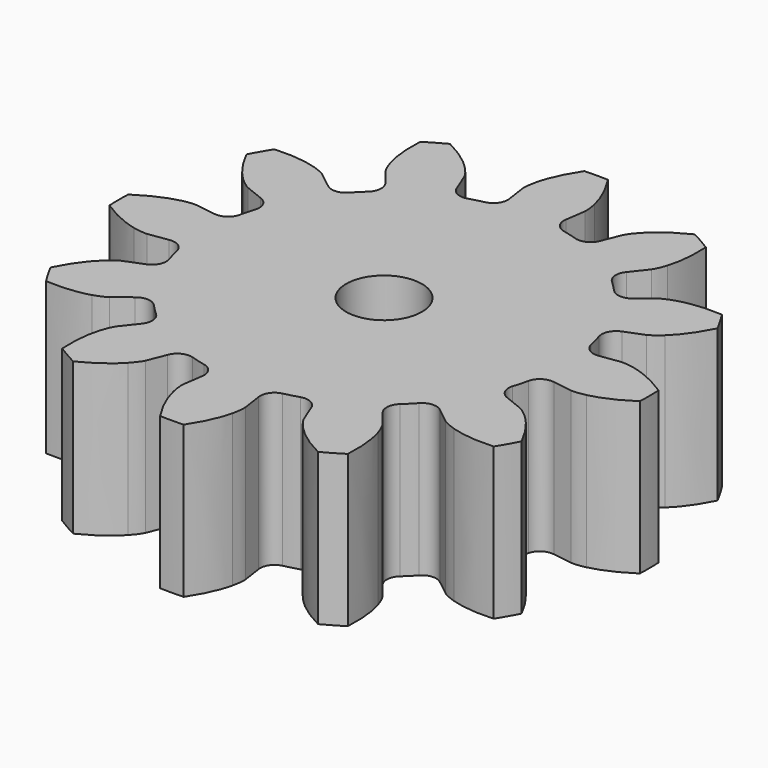
from build123d import *

# Parameters (mm, degrees)
PAD_DEPTH    = 10
SKETCH_R     = 2.5
POCKET_DEPTH = 10.001


with BuildPart() as part:
    # InvoluteGear → Pad (new body)
    with BuildSketch(Plane.XY):
        with BuildLine():
            Line((12.688919, -1.863319), (13.985569, -2.051661))
            add(Edge.make_bspline(
                [(13.985569, -2.051661), (14.088954, -2.059022), (14.399344, -2.065899), (14.921155, -1.947091)],
                knots=[0, 0, 0, 0, 1, 1, 1, 1], degree=3))
            add(Edge.make_bspline(
                [(14.921155, -1.947091), (15.542284, -1.802024), (16.426725, -1.479901), (17.486284, -0.774391)],
                knots=[0, 0, 0, 0, 1, 1, 1, 1], degree=3))
            ThreePointArc((17.486284, -0.774391), (17.501713, 0.000777), (17.482792, 0.775869))
            add(Edge.make_bspline(
                [(17.482792, 0.775869), (16.426725, 1.479901), (15.542284, 1.802024), (14.921155, 1.947091)],
                knots=[0, 0, 0, 0, 1, 1, 1, 1], degree=3))
            add(Edge.make_bspline(
                [(14.921155, 1.947091), (14.399344, 2.065899), (14.088954, 2.059022), (13.985569, 2.051661)],
                knots=[0, 0, 0, 0, 1, 1, 1, 1], degree=3))
            Line((13.985569, 2.051661), (12.688919, 1.863319))
            ThreePointArc((12.688919, 1.863319), (11.993113, 2.004447), (11.589448, 2.5885))
            ThreePointArc((11.589448, 2.5885), (11.470369, 3.073476), (11.331006, 3.553017))
            ThreePointArc((11.331006, 3.553017), (11.388564, 4.260655), (11.920586, 4.730778))
            Line((11.920586, 4.730778), (13.137689, 5.215994))
            add(Edge.make_bspline(
                [(13.137689, 5.215994), (13.230903, 5.261311), (13.503147, 5.410551), (13.895645, 5.774347)],
                knots=[0, 0, 0, 0, 1, 1, 1, 1], degree=3))
            add(Edge.make_bspline(
                [(13.895645, 5.774347), (14.361025, 6.210543), (14.965912, 6.931731), (15.530762, 8.072499)],
                knots=[0, 0, 0, 0, 1, 1, 1, 1], degree=3))
            ThreePointArc((15.530762, 8.072499), (15.156539, 8.75153), (14.752608, 9.413318))
            add(Edge.make_bspline(
                [(14.752608, 9.413318), (13.486011, 9.494994), (12.559, 9.331741), (11.948554, 9.146808)],
                knots=[0, 0, 0, 0, 1, 1, 1, 1], degree=3))
            add(Edge.make_bspline(
                [(11.948554, 9.146808), (11.437248, 8.988793), (11.171881, 8.827642), (11.086028, 8.769575)],
                knots=[0, 0, 0, 0, 1, 1, 1, 1], degree=3))
            Line((11.086028, 8.769575), (10.057267, 7.958141))
            ThreePointArc((10.057267, 7.958141), (9.384117, 7.732458), (8.742506, 8.03643))
            ThreePointArc((8.742506, 8.03643), (8.396893, 8.396893), (8.03643, 8.742506))
            ThreePointArc((8.03643, 8.742506), (7.732458, 9.384117), (7.958141, 10.057267))
            Line((7.958141, 10.057267), (8.769575, 11.086028))
            add(Edge.make_bspline(
                [(8.769575, 11.086028), (8.827642, 11.171881), (8.988793, 11.437248), (9.146808, 11.948554)],
                knots=[0, 0, 0, 0, 1, 1, 1, 1], degree=3))
            add(Edge.make_bspline(
                [(9.146808, 11.948554), (9.331741, 12.559), (9.494994, 13.486011), (9.413785, 14.75637)],
                knots=[0, 0, 0, 0, 1, 1, 1, 1], degree=3))
            ThreePointArc((9.413785, 14.75637), (8.750183, 15.157317), (8.069474, 15.528477))
            add(Edge.make_bspline(
                [(8.069474, 15.528477), (6.931731, 14.965912), (6.210543, 14.361025), (5.774347, 13.895645)],
                knots=[0, 0, 0, 0, 1, 1, 1, 1], degree=3))
            add(Edge.make_bspline(
                [(5.774347, 13.895645), (5.410551, 13.503147), (5.261311, 13.230903), (5.215994, 13.137689)],
                knots=[0, 0, 0, 0, 1, 1, 1, 1], degree=3))
            Line((5.215994, 13.137689), (4.730778, 11.920586))
            ThreePointArc((4.730778, 11.920586), (4.260655, 11.388564), (3.553017, 11.331006))
            ThreePointArc((3.553017, 11.331006), (3.073476, 11.470369), (2.5885, 11.589448))
            ThreePointArc((2.5885, 11.589448), (2.004447, 11.993113), (1.863319, 12.688919))
            Line((1.863319, 12.688919), (2.051661, 13.985569))
            add(Edge.make_bspline(
                [(2.051661, 13.985569), (2.059022, 14.088954), (2.065899, 14.399344), (1.947091, 14.921155)],
                knots=[0, 0, 0, 0, 1, 1, 1, 1], degree=3))
            add(Edge.make_bspline(
                [(1.947091, 14.921155), (1.802024, 15.542284), (1.479901, 16.426725), (0.774391, 17.486284)],
                knots=[0, 0, 0, 0, 1, 1, 1, 1], degree=3))
            ThreePointArc((0.774391, 17.486284), (-0.000777, 17.501713), (-0.775869, 17.482792))
            add(Edge.make_bspline(
                [(-0.775869, 17.482792), (-1.479901, 16.426725), (-1.802024, 15.542284), (-1.947091, 14.921155)],
                knots=[0, 0, 0, 0, 1, 1, 1, 1], degree=3))
            add(Edge.make_bspline(
                [(-1.947091, 14.921155), (-2.065899, 14.399344), (-2.059022, 14.088954), (-2.051661, 13.985569)],
                knots=[0, 0, 0, 0, 1, 1, 1, 1], degree=3))
            Line((-2.051661, 13.985569), (-1.863319, 12.688919))
            ThreePointArc((-1.863319, 12.688919), (-2.004447, 11.993113), (-2.5885, 11.589448))
            ThreePointArc((-2.5885, 11.589448), (-3.073476, 11.470369), (-3.553017, 11.331006))
            ThreePointArc((-3.553017, 11.331006), (-4.260655, 11.388564), (-4.730778, 11.920586))
            Line((-4.730778, 11.920586), (-5.215994, 13.137689))
            add(Edge.make_bspline(
                [(-5.215994, 13.137689), (-5.261311, 13.230903), (-5.410551, 13.503147), (-5.774347, 13.895645)],
                knots=[0, 0, 0, 0, 1, 1, 1, 1], degree=3))
            add(Edge.make_bspline(
                [(-5.774347, 13.895645), (-6.210543, 14.361025), (-6.931731, 14.965912), (-8.072499, 15.530762)],
                knots=[0, 0, 0, 0, 1, 1, 1, 1], degree=3))
            ThreePointArc((-8.072499, 15.530762), (-8.75153, 15.156539), (-9.413318, 14.752608))
            add(Edge.make_bspline(
                [(-9.413318, 14.752608), (-9.494994, 13.486011), (-9.331741, 12.559), (-9.146808, 11.948554)],
                knots=[0, 0, 0, 0, 1, 1, 1, 1], degree=3))
            add(Edge.make_bspline(
                [(-9.146808, 11.948554), (-8.988793, 11.437248), (-8.827642, 11.171881), (-8.769575, 11.086028)],
                knots=[0, 0, 0, 0, 1, 1, 1, 1], degree=3))
            Line((-8.769575, 11.086028), (-7.958141, 10.057267))
            ThreePointArc((-7.958141, 10.057267), (-7.732458, 9.384117), (-8.03643, 8.742506))
            ThreePointArc((-8.03643, 8.742506), (-8.396893, 8.396893), (-8.742506, 8.03643))
            ThreePointArc((-8.742506, 8.03643), (-9.384117, 7.732458), (-10.057267, 7.958141))
            Line((-10.057267, 7.958141), (-11.086028, 8.769575))
            add(Edge.make_bspline(
                [(-11.086028, 8.769575), (-11.171881, 8.827642), (-11.437248, 8.988793), (-11.948554, 9.146808)],
                knots=[0, 0, 0, 0, 1, 1, 1, 1], degree=3))
            add(Edge.make_bspline(
                [(-11.948554, 9.146808), (-12.559, 9.331741), (-13.486011, 9.494994), (-14.75637, 9.413785)],
                knots=[0, 0, 0, 0, 1, 1, 1, 1], degree=3))
            ThreePointArc((-14.75637, 9.413785), (-15.157317, 8.750183), (-15.528477, 8.069474))
            add(Edge.make_bspline(
                [(-15.528477, 8.069474), (-14.965912, 6.931731), (-14.361025, 6.210543), (-13.895645, 5.774347)],
                knots=[0, 0, 0, 0, 1, 1, 1, 1], degree=3))
            add(Edge.make_bspline(
                [(-13.895645, 5.774347), (-13.503147, 5.410551), (-13.230903, 5.261311), (-13.137689, 5.215994)],
                knots=[0, 0, 0, 0, 1, 1, 1, 1], degree=3))
            Line((-13.137689, 5.215994), (-11.920586, 4.730778))
            ThreePointArc((-11.920586, 4.730778), (-11.388564, 4.260655), (-11.331006, 3.553017))
            ThreePointArc((-11.331006, 3.553017), (-11.470369, 3.073476), (-11.589448, 2.5885))
            ThreePointArc((-11.589448, 2.5885), (-11.993113, 2.004447), (-12.688919, 1.863319))
            Line((-12.688919, 1.863319), (-13.985569, 2.051661))
            add(Edge.make_bspline(
                [(-13.985569, 2.051661), (-14.088954, 2.059022), (-14.399344, 2.065899), (-14.921155, 1.947091)],
                knots=[0, 0, 0, 0, 1, 1, 1, 1], degree=3))
            add(Edge.make_bspline(
                [(-14.921155, 1.947091), (-15.542284, 1.802024), (-16.426725, 1.479901), (-17.486284, 0.774391)],
                knots=[0, 0, 0, 0, 1, 1, 1, 1], degree=3))
            ThreePointArc((-17.486284, 0.774391), (-17.501713, -0.000777), (-17.482792, -0.775869))
            add(Edge.make_bspline(
                [(-17.482792, -0.775869), (-16.426725, -1.479901), (-15.542284, -1.802024), (-14.921155, -1.947091)],
                knots=[0, 0, 0, 0, 1, 1, 1, 1], degree=3))
            add(Edge.make_bspline(
                [(-14.921155, -1.947091), (-14.399344, -2.065899), (-14.088954, -2.059022), (-13.985569, -2.051661)],
                knots=[0, 0, 0, 0, 1, 1, 1, 1], degree=3))
            Line((-13.985569, -2.051661), (-12.688919, -1.863319))
            ThreePointArc((-12.688919, -1.863319), (-11.993113, -2.004447), (-11.589448, -2.5885))
            ThreePointArc((-11.589448, -2.5885), (-11.470369, -3.073476), (-11.331006, -3.553017))
            ThreePointArc((-11.331006, -3.553017), (-11.388564, -4.260655), (-11.920586, -4.730778))
            Line((-11.920586, -4.730778), (-13.137689, -5.215994))
            add(Edge.make_bspline(
                [(-13.137689, -5.215994), (-13.230903, -5.261311), (-13.503147, -5.410551), (-13.895645, -5.774347)],
                knots=[0, 0, 0, 0, 1, 1, 1, 1], degree=3))
            add(Edge.make_bspline(
                [(-13.895645, -5.774347), (-14.361025, -6.210543), (-14.965912, -6.931731), (-15.530762, -8.072499)],
                knots=[0, 0, 0, 0, 1, 1, 1, 1], degree=3))
            ThreePointArc((-15.530762, -8.072499), (-15.156539, -8.75153), (-14.752608, -9.413318))
            add(Edge.make_bspline(
                [(-14.752608, -9.413318), (-13.486011, -9.494994), (-12.559, -9.331741), (-11.948554, -9.146808)],
                knots=[0, 0, 0, 0, 1, 1, 1, 1], degree=3))
            add(Edge.make_bspline(
                [(-11.948554, -9.146808), (-11.437248, -8.988793), (-11.171881, -8.827642), (-11.086028, -8.769575)],
                knots=[0, 0, 0, 0, 1, 1, 1, 1], degree=3))
            Line((-11.086028, -8.769575), (-10.057267, -7.958141))
            ThreePointArc((-10.057267, -7.958141), (-9.384117, -7.732458), (-8.742506, -8.03643))
            ThreePointArc((-8.742506, -8.03643), (-8.396893, -8.396893), (-8.03643, -8.742506))
            ThreePointArc((-8.03643, -8.742506), (-7.732458, -9.384117), (-7.958141, -10.057267))
            Line((-7.958141, -10.057267), (-8.769575, -11.086028))
            add(Edge.make_bspline(
                [(-8.769575, -11.086028), (-8.827642, -11.171881), (-8.988793, -11.437248), (-9.146808, -11.948554)],
                knots=[0, 0, 0, 0, 1, 1, 1, 1], degree=3))
            add(Edge.make_bspline(
                [(-9.146808, -11.948554), (-9.331741, -12.559), (-9.494994, -13.486011), (-9.413785, -14.75637)],
                knots=[0, 0, 0, 0, 1, 1, 1, 1], degree=3))
            ThreePointArc((-9.413785, -14.75637), (-8.750183, -15.157317), (-8.069474, -15.528477))
            add(Edge.make_bspline(
                [(-8.069474, -15.528477), (-6.931731, -14.965912), (-6.210543, -14.361025), (-5.774347, -13.895645)],
                knots=[0, 0, 0, 0, 1, 1, 1, 1], degree=3))
            add(Edge.make_bspline(
                [(-5.774347, -13.895645), (-5.410551, -13.503147), (-5.261311, -13.230903), (-5.215994, -13.137689)],
                knots=[0, 0, 0, 0, 1, 1, 1, 1], degree=3))
            Line((-5.215994, -13.137689), (-4.730778, -11.920586))
            ThreePointArc((-4.730778, -11.920586), (-4.260655, -11.388564), (-3.553017, -11.331006))
            ThreePointArc((-3.553017, -11.331006), (-3.073476, -11.470369), (-2.5885, -11.589448))
            ThreePointArc((-2.5885, -11.589448), (-2.004447, -11.993113), (-1.863319, -12.688919))
            Line((-1.863319, -12.688919), (-2.051661, -13.985569))
            add(Edge.make_bspline(
                [(-2.051661, -13.985569), (-2.059022, -14.088954), (-2.065899, -14.399344), (-1.947091, -14.921155)],
                knots=[0, 0, 0, 0, 1, 1, 1, 1], degree=3))
            add(Edge.make_bspline(
                [(-1.947091, -14.921155), (-1.802024, -15.542284), (-1.479901, -16.426725), (-0.774391, -17.486284)],
                knots=[0, 0, 0, 0, 1, 1, 1, 1], degree=3))
            ThreePointArc((-0.774391, -17.486284), (0.000777, -17.501713), (0.775869, -17.482792))
            add(Edge.make_bspline(
                [(0.775869, -17.482792), (1.479901, -16.426725), (1.802024, -15.542284), (1.947091, -14.921155)],
                knots=[0, 0, 0, 0, 1, 1, 1, 1], degree=3))
            add(Edge.make_bspline(
                [(1.947091, -14.921155), (2.065899, -14.399344), (2.059022, -14.088954), (2.051661, -13.985569)],
                knots=[0, 0, 0, 0, 1, 1, 1, 1], degree=3))
            Line((2.051661, -13.985569), (1.863319, -12.688919))
            ThreePointArc((1.863319, -12.688919), (2.004447, -11.993113), (2.5885, -11.589448))
            ThreePointArc((2.5885, -11.589448), (3.073476, -11.470369), (3.553017, -11.331006))
            ThreePointArc((3.553017, -11.331006), (4.260655, -11.388564), (4.730778, -11.920586))
            Line((4.730778, -11.920586), (5.215994, -13.137689))
            add(Edge.make_bspline(
                [(5.215994, -13.137689), (5.261311, -13.230903), (5.410551, -13.503147), (5.774347, -13.895645)],
                knots=[0, 0, 0, 0, 1, 1, 1, 1], degree=3))
            add(Edge.make_bspline(
                [(5.774347, -13.895645), (6.210543, -14.361025), (6.931731, -14.965912), (8.072499, -15.530762)],
                knots=[0, 0, 0, 0, 1, 1, 1, 1], degree=3))
            ThreePointArc((8.072499, -15.530762), (8.75153, -15.156539), (9.413318, -14.752608))
            add(Edge.make_bspline(
                [(9.413318, -14.752608), (9.494994, -13.486011), (9.331741, -12.559), (9.146808, -11.948554)],
                knots=[0, 0, 0, 0, 1, 1, 1, 1], degree=3))
            add(Edge.make_bspline(
                [(9.146808, -11.948554), (8.988793, -11.437248), (8.827642, -11.171881), (8.769575, -11.086028)],
                knots=[0, 0, 0, 0, 1, 1, 1, 1], degree=3))
            Line((8.769575, -11.086028), (7.958141, -10.057267))
            ThreePointArc((7.958141, -10.057267), (7.732458, -9.384117), (8.03643, -8.742506))
            ThreePointArc((8.03643, -8.742506), (8.396893, -8.396893), (8.742506, -8.03643))
            ThreePointArc((8.742506, -8.03643), (9.384117, -7.732458), (10.057267, -7.958141))
            Line((10.057267, -7.958141), (11.086028, -8.769575))
            add(Edge.make_bspline(
                [(11.086028, -8.769575), (11.171881, -8.827642), (11.437248, -8.988793), (11.948554, -9.146808)],
                knots=[0, 0, 0, 0, 1, 1, 1, 1], degree=3))
            add(Edge.make_bspline(
                [(11.948554, -9.146808), (12.559, -9.331741), (13.486011, -9.494994), (14.75637, -9.413785)],
                knots=[0, 0, 0, 0, 1, 1, 1, 1], degree=3))
            ThreePointArc((14.75637, -9.413785), (15.157317, -8.750183), (15.528477, -8.069474))
            add(Edge.make_bspline(
                [(15.528477, -8.069474), (14.965912, -6.931731), (14.361025, -6.210543), (13.895645, -5.774347)],
                knots=[0, 0, 0, 0, 1, 1, 1, 1], degree=3))
            add(Edge.make_bspline(
                [(13.895645, -5.774347), (13.503147, -5.410551), (13.230903, -5.261311), (13.137689, -5.215994)],
                knots=[0, 0, 0, 0, 1, 1, 1, 1], degree=3))
            Line((13.137689, -5.215994), (11.920586, -4.730778))
            ThreePointArc((11.920586, -4.730778), (11.388564, -4.260655), (11.331006, -3.553017))
            ThreePointArc((11.331006, -3.553017), (11.470369, -3.073476), (11.589448, -2.5885))
            ThreePointArc((11.589448, -2.5885), (11.993113, -2.004447), (12.688919, -1.863319))
        make_face()
    extrude(amount=PAD_DEPTH)

    # Sketch (on Face122 of Pad) → Pocket (cut, through all)
    with BuildSketch(Plane.XY.offset(10)):
        Circle(SKETCH_R)
    extrude(amount=-POCKET_DEPTH, mode=Mode.SUBTRACT)


solid = part.part
